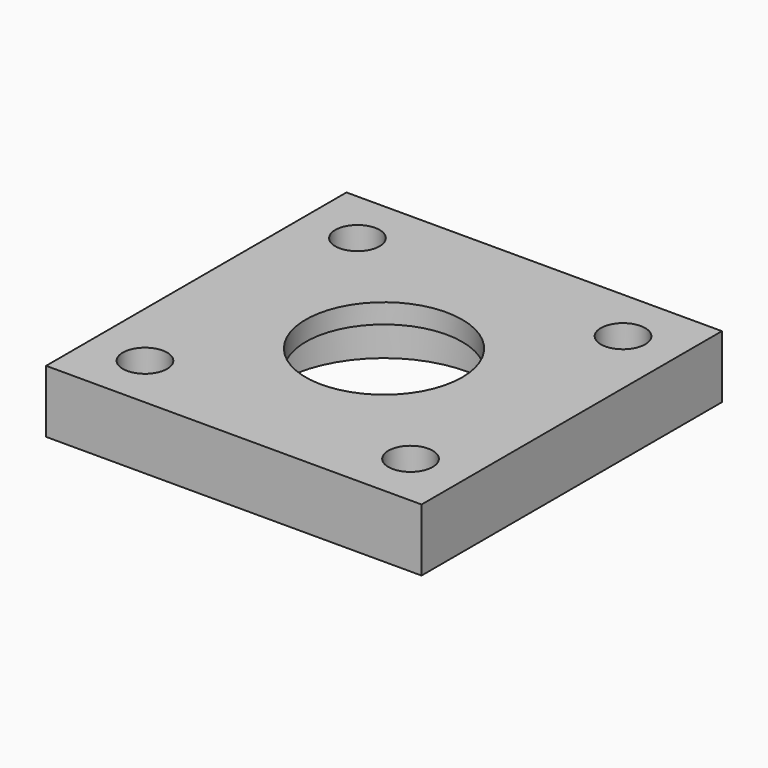
from build123d import *

# Parameters (mm, degrees)
F0_W     = 38.1
F0_H     = 38.1
F0_R     = 10.541
F1_DEPTH = 6.35
F0_R_2   = 7.9375
F2_DEPTH = 6.35
F3_D     = 4.4958
F4_D     = 4.4958
F5_D     = 4.4958
F6_D     = 4.4958
F7_DEPTH = 4.365625


with BuildPart() as f1:
    # F0 (on Top) → F1 (new body)
    with BuildSketch(Plane.XY):
        Rectangle(F0_W, F0_H)
        Circle(F0_R, mode=Mode.SUBTRACT)
    extrude(amount=F1_DEPTH)

    # F0 (on Top) → F2 (join)
    with BuildSketch(Plane.XY):
        Rectangle(F0_W, F0_H)
        Circle(F0_R, mode=Mode.SUBTRACT)
        Circle(F0_R)
        Circle(F0_R_2, mode=Mode.SUBTRACT)
    extrude(amount=F2_DEPTH)

    # F3 (through all)
    with Locations(Plane(origin=(0, 0, 0), x_dir=(1, 0, 0), z_dir=(0, 0, -1))):
        with Locations((-13.4747, 13.4747)):
            Hole(F3_D / 2)

    # F4 (through all)
    with Locations(Plane(origin=(0, 0, 0), x_dir=(1, 0, 0), z_dir=(0, 0, -1))):
        with Locations((-13.4747, -13.4747)):
            Hole(F4_D / 2)

    # F5 (through all)
    with Locations(Plane(origin=(0, 0, 0), x_dir=(1, 0, 0), z_dir=(0, 0, -1))):
        with Locations((13.4747, -13.4747)):
            Hole(F5_D / 2)

    # F6 (through all)
    with Locations(Plane(origin=(0, 0, 0), x_dir=(1, 0, 0), z_dir=(0, 0, -1))):
        with Locations((13.4747, 13.4747)):
            Hole(F6_D / 2)

    # F0 (on Top) → F7 (cut)
    with BuildSketch(Plane.XY):
        Circle(F0_R)
        Circle(F0_R_2, mode=Mode.SUBTRACT)
    extrude(amount=F7_DEPTH, mode=Mode.SUBTRACT)


solid = f1.part
